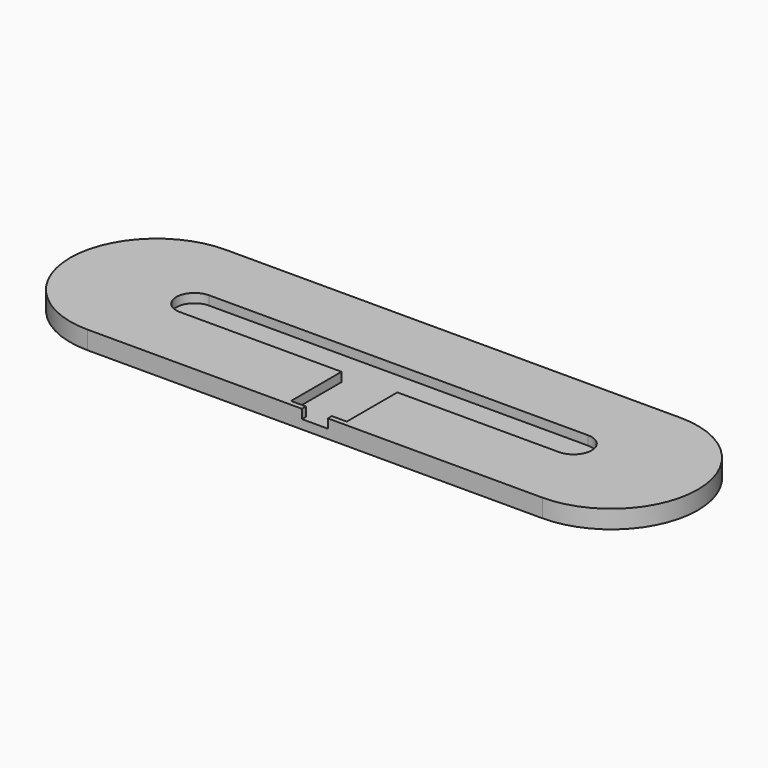
from build123d import *

# Parameters (mm, degrees)
PAD_DEPTH       = 6
POCKET_DEPTH    = 3
SKETCH002_W     = 18.4
SKETCH002_H     = 20.85
POCKET001_DEPTH = 3
SKETCH003_W     = 8.55
SKETCH003_H     = 1.65
POCKET002_DEPTH = 3


with BuildPart() as part:
    # Sketch → Pad (new body)
    with BuildSketch(Plane.XY):
        with BuildLine():
            ThreePointArc((-75, 28.5), (-103.5, 0), (-75, -28.5))
            Line((-75, -28.5), (75, -28.5))
            ThreePointArc((75, -28.5), (103.5, 0), (75, 28.5))
            Line((-75, 28.5), (75, 28.5))
        make_face()
    extrude(amount=PAD_DEPTH)

    # Sketch001 (on Face6 of Pad) → Pocket (cut)
    with BuildSketch(Plane.XY.offset(6)):
        with BuildLine():
            ThreePointArc((-62.5, 6), (-68.5, 0), (-62.5, -6))
            Line((-62.5, -6), (62.5, -6))
            ThreePointArc((62.5, -6), (68.5, 0), (62.5, 6))
            Line((-62.5, 6), (62.5, 6))
        make_face()
    extrude(amount=-POCKET_DEPTH, mode=Mode.SUBTRACT)

    # Sketch002 (on Face5 of Pocket) → Pocket001 (cut)
    with BuildSketch(Plane.XY.offset(6)):
        with Locations((0, -16.425)):
            Rectangle(SKETCH002_W, SKETCH002_H)
    extrude(amount=-POCKET001_DEPTH, mode=Mode.SUBTRACT)

    # Sketch003 (on Face5 of Pocket001) → Pocket002 (cut)
    with BuildSketch(Plane.XY.offset(6)):
        with Locations((0, -27.675)):
            Rectangle(SKETCH003_W, SKETCH003_H)
    extrude(amount=-POCKET002_DEPTH, mode=Mode.SUBTRACT)


solid = part.part
